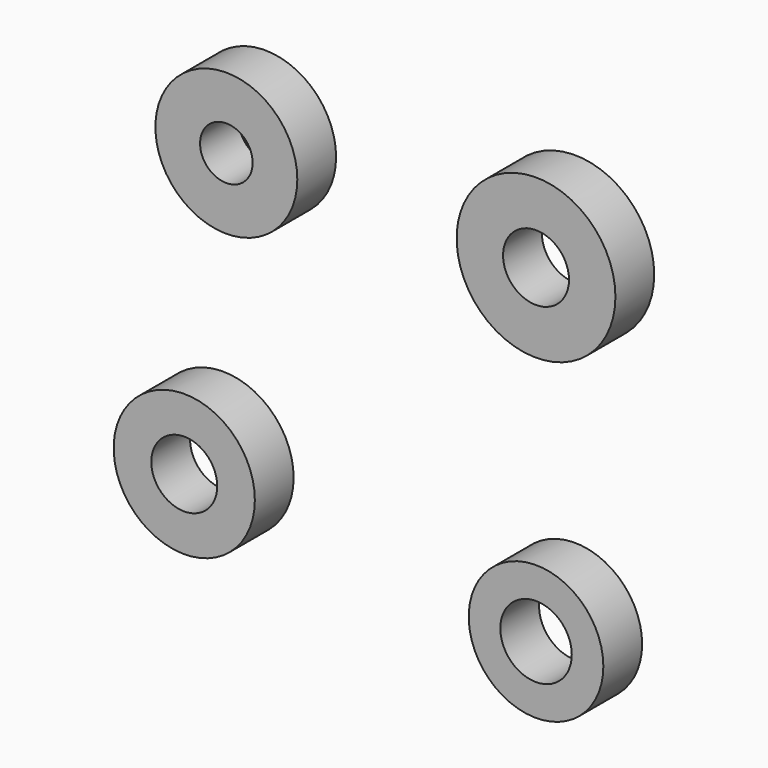
from build123d import *

# Parameters (mm, degrees)
F0_R     = 13.758134
F0_R_2   = 5.098739
F0_R_3   = 15.393104
F0_R_4   = 6.392556
F0_R_5   = 13.686935
F0_R_6   = 6.392555
F0_R_7   = 13.051461
F0_R_8   = 6.928292
F1_DEPTH = 9.398


with BuildPart() as f1:
    # F0 (on Front) → F1 (new body)
    with BuildSketch(Plane.XZ):
        with Locations((-32.645248, 34.539837)):
            Circle(F0_R)
        with Locations((-32.645248, 34.539837)):
            Circle(F0_R_2, mode=Mode.SUBTRACT)
        with Locations((27.398691, 34.539837)):
            Circle(F0_R_3)
        with Locations((27.398691, 34.539837)):
            Circle(F0_R_4, mode=Mode.SUBTRACT)
        with Locations((-40.806558, -22.880821)):
            Circle(F0_R_5)
        with Locations((-40.806558, -22.880821)):
            Circle(F0_R_6, mode=Mode.SUBTRACT)
        with Locations((27.398691, -29.293278)):
            Circle(F0_R_7)
        with Locations((27.398691, -29.293278)):
            Circle(F0_R_8, mode=Mode.SUBTRACT)
    extrude(amount=F1_DEPTH)


solid = f1.part
